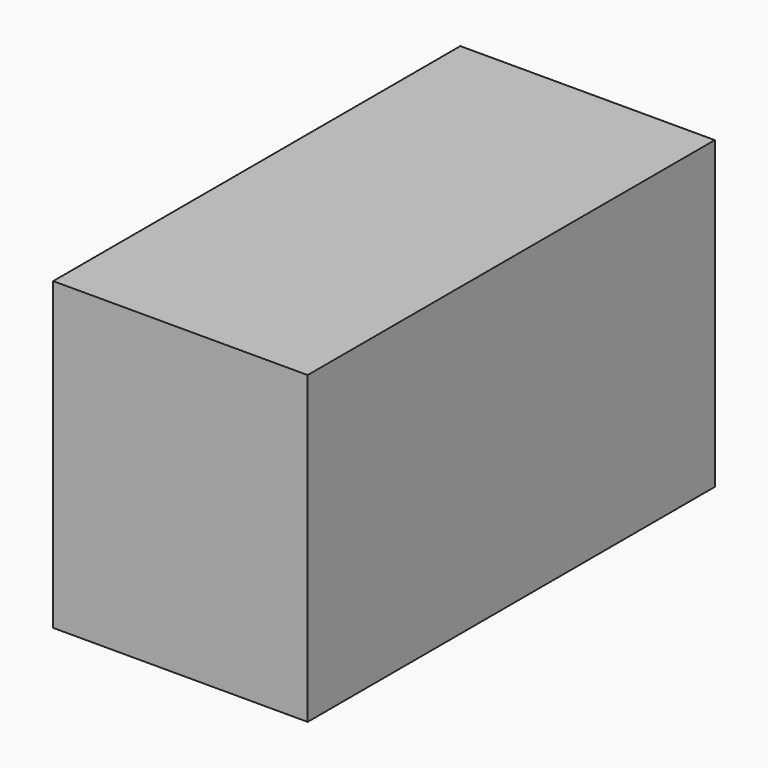
from build123d import *

# Parameters (mm, degrees)
F2_W     = 2500
F2_H     = 3000
F3_DEPTH = 5000
F4_W     = 2300
F4_H     = 2800
F5_DEPTH = 4900


with BuildPart() as f3:
    # F2 (on Front) → F3 (new body)
    with BuildSketch(Plane.XZ):
        Rectangle(F2_W, F2_H)
    extrude(amount=-F3_DEPTH)

    # F4 (on face) → F5 (cut)
    with BuildSketch(Plane(origin=(0, 5000, 0), x_dir=(-1, 0, 0), z_dir=(0, 1, 0))):
        Rectangle(F4_W, F4_H)
    extrude(amount=-F5_DEPTH, mode=Mode.SUBTRACT)


solid = f3.part
